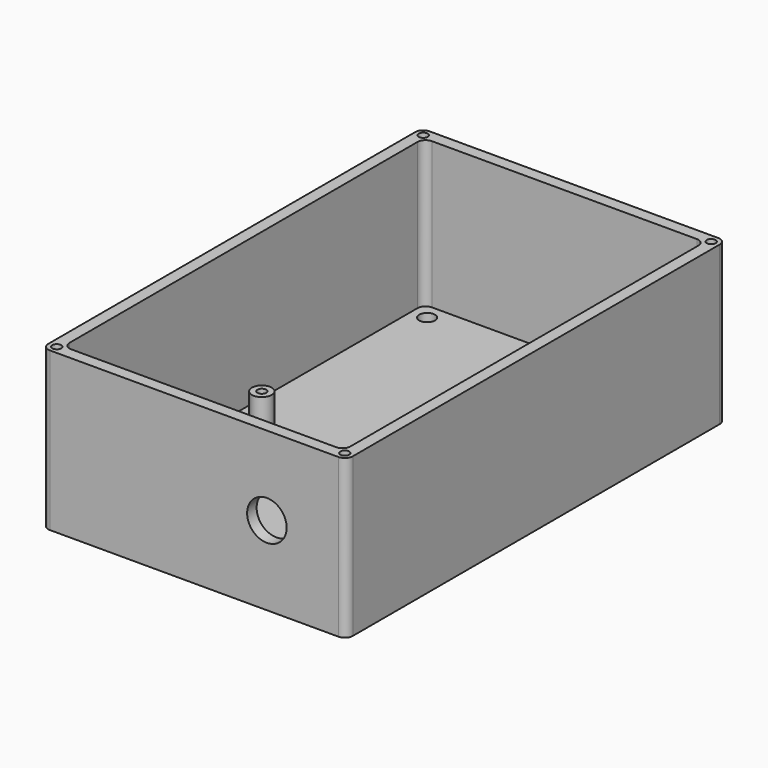
from build123d import *

# Parameters (mm, degrees)
F0_R     = 1.125
F1_DEPTH = 40
F0_R_2   = 2
F0_R_3   = 2.5
F2_DEPTH = 3
F0_R_4   = 1.1
F3_DEPTH = 10
F4_DEPTH = 3
F5_R     = 5
F6_DEPTH = 4
F7_DEPTH = 25


with BuildPart() as f1:
    # F0 (on Top) → F1 (new body)
    with BuildSketch(Plane.XY):
        with BuildLine():
            Line((-2, 120), (-75, 120))
            ThreePointArc((-75, 120), (-76.414214, 119.414214), (-77, 118))
            Line((-77, 118), (-77, 2))
            ThreePointArc((-77, 2), (-76.414214, 0.585786), (-75, 0))
            Line((-75, 0), (-2, 0))
            ThreePointArc((-2, 0), (-0.585786, 0.585786), (0, 2))
            Line((0, 2), (0, 118))
            ThreePointArc((0, 118), (-0.585786, 119.414214), (-2, 120))
        make_face()
        with Locations((-74.914214, 2.085786)):
            Circle(F0_R, mode=Mode.SUBTRACT)
        with Locations((-2.085786, 2.085786)):
            Circle(F0_R, mode=Mode.SUBTRACT)
        with BuildLine():
            Line((-72, 117), (-38.5, 117))
            Line((-38.5, 117), (-5, 117))
            ThreePointArc((-5, 117), (-3.585786, 116.414214), (-3, 115))
            Line((-3, 115), (-3, 60))
            Line((-3, 60), (-3, 5))
            ThreePointArc((-3, 5), (-3.585786, 3.585786), (-5, 3))
            Line((-5, 3), (-38.5, 3))
            Line((-38.5, 3), (-72, 3))
            ThreePointArc((-72, 3), (-73.414214, 3.585786), (-74, 5))
            Line((-74, 5), (-74, 60))
            Line((-74, 60), (-74, 115))
            ThreePointArc((-74, 115), (-73.414214, 116.414214), (-72, 117))
        make_face(mode=Mode.SUBTRACT)
        with Locations((-74.914214, 117.914214)):
            Circle(F0_R, mode=Mode.SUBTRACT)
        with Locations((-2.085786, 117.914214)):
            Circle(F0_R, mode=Mode.SUBTRACT)
    extrude(amount=F1_DEPTH)

    # F0 (on Top) → F2 (join)
    with BuildSketch(Plane.XY):
        with BuildLine():
            Line((-5, 117), (-38.5, 117))
            Line((-38.5, 117), (-72, 117))
            ThreePointArc((-72, 117), (-73.414214, 116.414214), (-74, 115))
            Line((-74, 115), (-74, 60))
            Line((-74, 60), (-74, 5))
            ThreePointArc((-74, 5), (-73.414214, 3.585786), (-72, 3))
            Line((-72, 3), (-38.5, 3))
            Line((-38.5, 3), (-5, 3))
            ThreePointArc((-5, 3), (-3.585786, 3.585786), (-3, 5))
            Line((-3, 5), (-3, 60))
            Line((-3, 60), (-3, 115))
            ThreePointArc((-3, 115), (-3.585786, 116.414214), (-5, 117))
        make_face()
        with Locations((-70, 7)):
            Circle(F0_R_2, mode=Mode.SUBTRACT)
        with Locations((-62.4, 6)):
            Circle(F0_R_3, mode=Mode.SUBTRACT)
        with Locations((-67.4, 57.5)):
            Circle(F0_R_3, mode=Mode.SUBTRACT)
        with Locations((-33.9, 6)):
            Circle(F0_R_3, mode=Mode.SUBTRACT)
        with Locations((-7, 7)):
            Circle(F0_R_2, mode=Mode.SUBTRACT)
        with Locations((-19.4, 57.4)):
            Circle(F0_R_3, mode=Mode.SUBTRACT)
        with Locations((-70, 113)):
            Circle(F0_R_2, mode=Mode.SUBTRACT)
        with Locations((-7, 113)):
            Circle(F0_R_2, mode=Mode.SUBTRACT)
    extrude(amount=F2_DEPTH)

    # F0 (on Top) → F3 (join)
    with BuildSketch(Plane.XY):
        with Locations((-67.4, 57.5)):
            Circle(F0_R_3)
        with Locations((-67.4, 57.5)):
            Circle(F0_R_4, mode=Mode.SUBTRACT)
        with Locations((-19.4, 57.4)):
            Circle(F0_R_3)
        with Locations((-19.4, 57.4)):
            Circle(F0_R_4, mode=Mode.SUBTRACT)
        with Locations((-33.9, 6)):
            Circle(F0_R_3)
        with Locations((-33.9, 6)):
            Circle(F0_R_4, mode=Mode.SUBTRACT)
        with Locations((-62.4, 6)):
            Circle(F0_R_3)
        with Locations((-62.4, 6)):
            Circle(F0_R_4, mode=Mode.SUBTRACT)
    extrude(amount=F3_DEPTH)

    # F0 (on Top) → F4 (join)
    with BuildSketch(Plane.XY):
        with Locations((-67.4, 57.5)):
            Circle(F0_R_4)
        with Locations((-19.4, 57.4)):
            Circle(F0_R_4)
        with Locations((-33.9, 6)):
            Circle(F0_R_4)
        with Locations((-62.4, 6)):
            Circle(F0_R_4)
    extrude(amount=F4_DEPTH)

    # F5 (on Front) → F6 (cut)
    with BuildSketch(Plane.XZ):
        with Locations((-20.117393, 20)):
            Circle(F5_R)
    extrude(amount=-F6_DEPTH, mode=Mode.SUBTRACT)

    # F0 (on Top) → F7 (join)
    with BuildSketch(Plane.XY):
        with Locations((-74.914214, 117.914214)):
            Circle(F0_R)
        with Locations((-2.085786, 117.914214)):
            Circle(F0_R)
        with Locations((-2.085786, 2.085786)):
            Circle(F0_R)
        with Locations((-74.914214, 2.085786)):
            Circle(F0_R)
    extrude(amount=F7_DEPTH)


solid = f1.part
